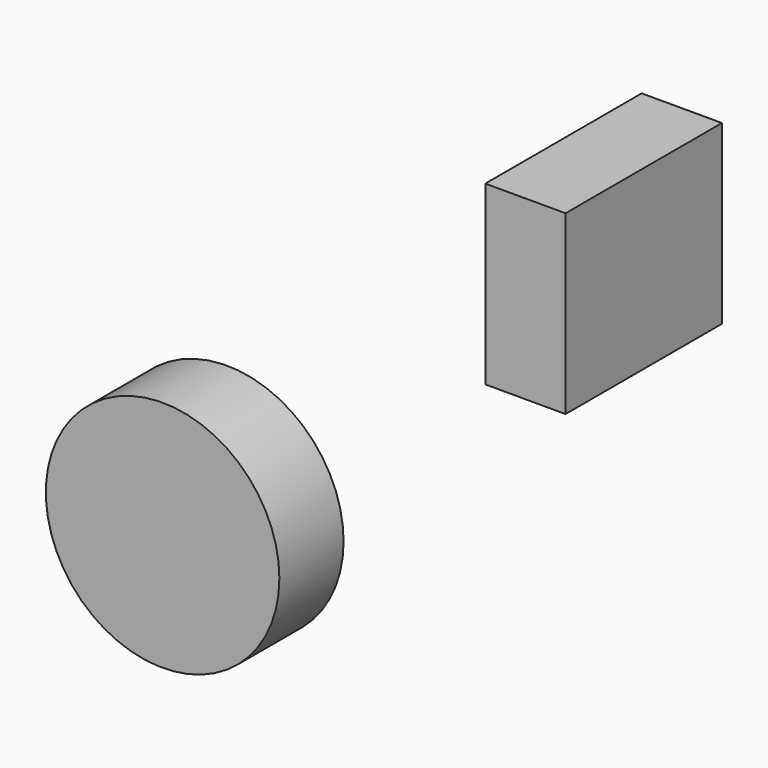
from build123d import *

# Parameters (mm, degrees)
F0_R     = 36.367819
F1_DEPTH = 25
F2_W     = 60.88572
F2_H     = 55.072063
F3_DEPTH = 25


with BuildPart() as f1:
    # F0 (on Front) → F1 (new body)
    with BuildSketch(Plane.XZ):
        with Locations((-34.138367, -40.106226)):
            Circle(F0_R)
    extrude(amount=F1_DEPTH)


with BuildPart() as f3:
    # F2 (on Right) → F3 (new body)
    with BuildSketch(Plane.YZ):
        with Locations((88.401373, 6.161857)):
            Rectangle(F2_W, F2_H)
    extrude(amount=F3_DEPTH)


solid = Compound([f1.part, f3.part])
